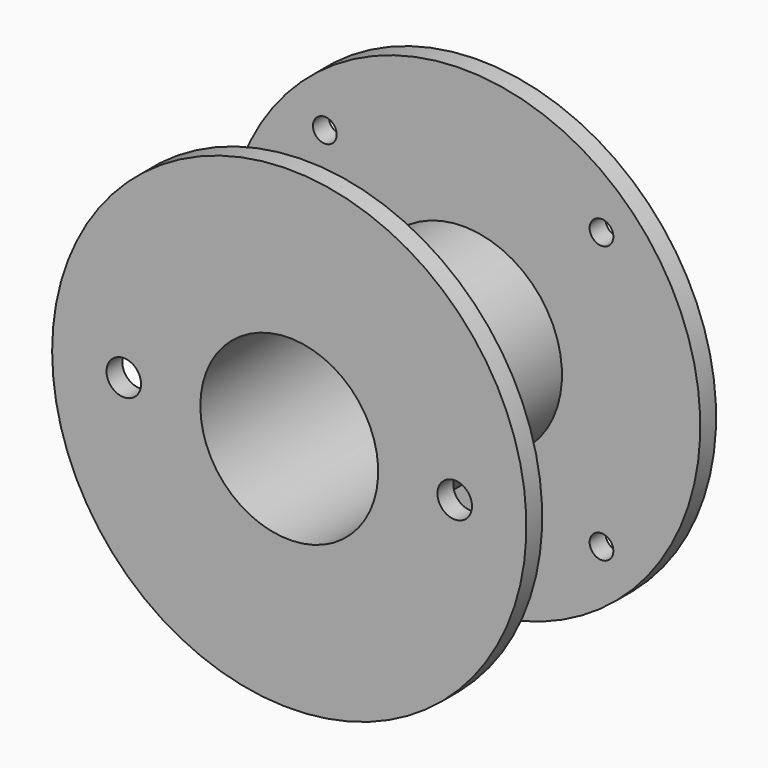
from build123d import *

# Parameters (mm, degrees)
SKETCH001_R     = 5.5499
POCKET_DEPTH    = 6.35
SKETCH002_R     = 28.575
POCKET001_DEPTH = 152.4
SKETCH003_R     = 3.81
POCKET002_DEPTH = 6.35


with BuildPart() as part:
    # Sketch → Revolution (revolve)
    with BuildSketch(Plane.XY):
        Polygon((0, 76.2), (-76.2, 76.2), (-76.2, 69.85), (-31.75, 69.85), (-31.75, 6.35), (-76.2, 6.35), (-76.2, 0), (0, 0), align=None)
    revolve(axis=Axis((0, 0, 0), (0, 1, 0)))

    # Sketch001 → Pocket (cut)
    with BuildSketch(Plane.XZ):
        with Locations((-53.1749, 0)):
            Circle(SKETCH001_R)
        with Locations((53.1749, 0)):
            Circle(SKETCH001_R)
    extrude(amount=-POCKET_DEPTH, mode=Mode.SUBTRACT)

    # Sketch002 → Pocket001 (cut)
    with BuildSketch(Plane(origin=(0, 76.2, 0), x_dir=(-1, 0, 0), z_dir=(0, 1, 0))):
        Circle(SKETCH002_R)
    extrude(amount=-POCKET001_DEPTH, mode=Mode.SUBTRACT)

    # Sketch003 → Pocket002 (cut)
    with BuildSketch(Plane(origin=(0, 76.2, 0), x_dir=(-1, 0, 0), z_dir=(0, 1, 0))):
        with Locations((-44.45, 44.45)):
            Circle(SKETCH003_R)
        with Locations((44.45, -44.45)):
            Circle(SKETCH003_R)
        with Locations((44.45, 44.45)):
            Circle(SKETCH003_R)
        with Locations((-44.45, -44.45)):
            Circle(SKETCH003_R)
    extrude(amount=-POCKET002_DEPTH, mode=Mode.SUBTRACT)


solid = part.part
